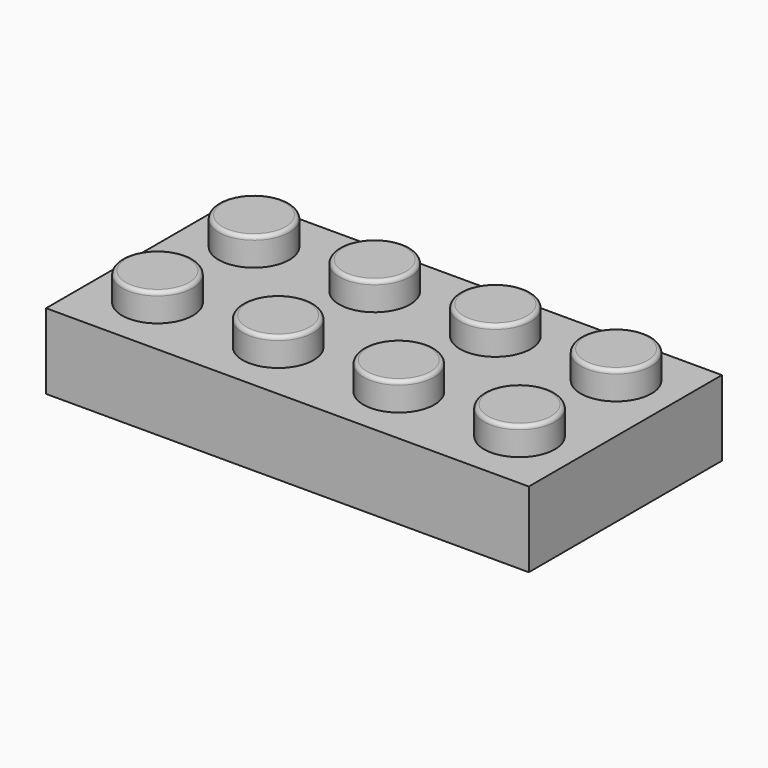
from build123d import *

# Parameters (mm, degrees)
F0_W      = 32.004
F0_H      = 16.002
F1_DEPTH  = 5.0038
F2_R      = 2.3495
F3_DEPTH  = 1.8542
F4_R      = 0.254
F5_R      = 3.2512
F5_R_2    = 2.4003
F1_FACE_W = 32.004
F1_FACE_H = 16.002
F1_FACE_R = 2.3495
F6_DEPTH  = 3.5052


with BuildPart() as f1:
    # F0 (on Top) → F1 (new body)
    with BuildSketch(Plane.XY):
        with Locations((16.002, -8.001)):
            Rectangle(F0_W, F0_H)
    extrude(amount=F1_DEPTH)

    # F2 (on face) → F3 (join)
    with BuildSketch(Plane.XY.offset(5.0038)):
        with Locations((28.1051, -3.8989)):
            Circle(F2_R)
        with Locations((28.1051, -11.8999)):
            Circle(F2_R)
        with Locations((20.1041, -11.8999)):
            Circle(F2_R)
        with Locations((20.1041, -3.8989)):
            Circle(F2_R)
        with Locations((12.1031, -3.8989)):
            Circle(F2_R)
        with Locations((12.1031, -11.8999)):
            Circle(F2_R)
        with Locations((4.1021, -11.8999)):
            Circle(F2_R)
        with Locations((4.1021, -3.8989)):
            Circle(F2_R)
    extrude(amount=F3_DEPTH)

    # F4
    f4_edges = [f1.edges().sort_by_distance(p)[0] for p in [
        (25.7556, -3.8989, 6.858),
        (25.7556, -11.8999, 6.858),
        (17.7546, -11.8999, 6.858),
        (17.7546, -3.8989, 6.858),
        (9.7536, -3.8989, 6.858),
        (9.7536, -11.8999, 6.858),
        (1.7526, -11.8999, 6.858),
        (1.7526, -3.8989, 6.858),
    ]]
    fillet(f4_edges, radius=F4_R)

    # F5 (on face) + F1_face (on face) → F6 (cut)
    with BuildSketch(Plane(origin=(0, 0, 0), x_dir=(1, 0, 0), z_dir=(0, 0, -1))):
        with BuildLine():
            Line((29.0068, 14.5034), (2.9972, 14.5034))
            Line((2.9972, 14.5034), (13.0940383166, 9.4549808417))
            ThreePointArc((13.0940383166, 9.4549808417), (16.002, 11.2522), (18.9099616834, 9.4549808417))
            Line((18.9099616834, 9.4549808417), (29.0068, 14.5034))
        make_face()
        with BuildLine():
            Line((1.4986, 14.5034), (1.4986, 1.4986))
            Line((1.4986, 1.4986), (2.9972, 1.4986))
            Line((2.9972, 1.4986), (13.0940383166, 6.5470191583))
            ThreePointArc((13.0940383166, 6.5470191583), (12.7508, 8.001), (13.0940383166, 9.4549808417))
            Line((13.0940383166, 9.4549808417), (2.9972, 14.5034))
            Line((2.9972, 14.5034), (1.4986, 14.5034))
        make_face()
        with Locations((8.001, 8.001)):
            Circle(F5_R, mode=Mode.SUBTRACT)
        with BuildLine():
            Line((18.9099616834, 6.5470191583), (29.0068, 1.4986))
            Line((29.0068, 1.4986), (30.5054, 1.4986))
            Line((30.5054, 1.4986), (30.5054, 14.5034))
            Line((30.5054, 14.5034), (29.0068, 14.5034))
            Line((29.0068, 14.5034), (18.9099616834, 9.4549808417))
            ThreePointArc((18.9099616834, 9.4549808417), (19.1662271146, 8.7479726953), (19.2532, 8.001))
            ThreePointArc((19.2532, 8.001), (19.1662271146, 7.2540273047), (18.9099616834, 6.5470191583))
        make_face()
        with Locations((24.003, 8.001)):
            Circle(F5_R, mode=Mode.SUBTRACT)
        with Locations((24.003, 8.001)):
            Circle(F5_R_2)
        with BuildLine():
            Line((13.0940383166, 6.5470191583), (2.9972, 1.4986))
            Line((2.9972, 1.4986), (29.0068, 1.4986))
            Line((29.0068, 1.4986), (18.9099616834, 6.5470191583))
            ThreePointArc((18.9099616834, 6.5470191583), (16.002, 4.7498), (13.0940383166, 6.5470191583))
        make_face()
        with BuildLine():
            Line((13.8551064134, 9.0744467933), (16.002, 8.001))
            Line((16.002, 8.001), (18.1488935866, 9.0744467933))
            ThreePointArc((18.1488935866, 9.0744467933), (16.002, 10.4013), (13.8551064134, 9.0744467933))
        make_face()
        with BuildLine():
            Line((16.002, 8.001), (18.1488935866, 6.9275532067))
            ThreePointArc((18.1488935866, 6.9275532067), (18.3380895494, 7.4495240648), (18.4023, 8.001))
            ThreePointArc((18.4023, 8.001), (18.3380895494, 8.5524759352), (18.1488935866, 9.0744467933))
            Line((18.1488935866, 9.0744467933), (16.002, 8.001))
        make_face()
        with BuildLine():
            Line((16.002, 8.001), (13.8551064134, 6.9275532067))
            ThreePointArc((13.8551064134, 6.9275532067), (16.002, 5.6007), (18.1488935866, 6.9275532067))
            Line((18.1488935866, 6.9275532067), (16.002, 8.001))
        make_face()
        with BuildLine():
            ThreePointArc((13.8551064134, 9.0744467933), (13.6017, 8.001), (13.8551064134, 6.9275532067))
            Line((13.8551064134, 6.9275532067), (16.002, 8.001))
            Line((16.002, 8.001), (13.8551064134, 9.0744467933))
        make_face()
        with Locations((8.001, 8.001)):
            Circle(F5_R_2)
    with BuildSketch(Plane(origin=(16.002, -8.001, 5.0038), x_dir=(1, 0, 0), z_dir=(0, 0, 1))):
        Rectangle(F1_FACE_W, F1_FACE_H)
        with Locations((-11.8999, -3.8989)):
            Circle(F1_FACE_R, mode=Mode.SUBTRACT)
        with Locations((-3.8989, -3.8989)):
            Circle(F1_FACE_R, mode=Mode.SUBTRACT)
        with Locations((4.1021, -3.8989)):
            Circle(F1_FACE_R, mode=Mode.SUBTRACT)
        with Locations((12.1031, -3.8989)):
            Circle(F1_FACE_R, mode=Mode.SUBTRACT)
        with Locations((-11.8999, 4.1021)):
            Circle(F1_FACE_R, mode=Mode.SUBTRACT)
        with Locations((-3.8989, 4.1021)):
            Circle(F1_FACE_R, mode=Mode.SUBTRACT)
        with Locations((4.1021, 4.1021)):
            Circle(F1_FACE_R, mode=Mode.SUBTRACT)
        with Locations((12.1031, 4.1021)):
            Circle(F1_FACE_R, mode=Mode.SUBTRACT)
    extrude(amount=-F6_DEPTH, dir=(0, 0, -1), mode=Mode.SUBTRACT)


solid = f1.part
